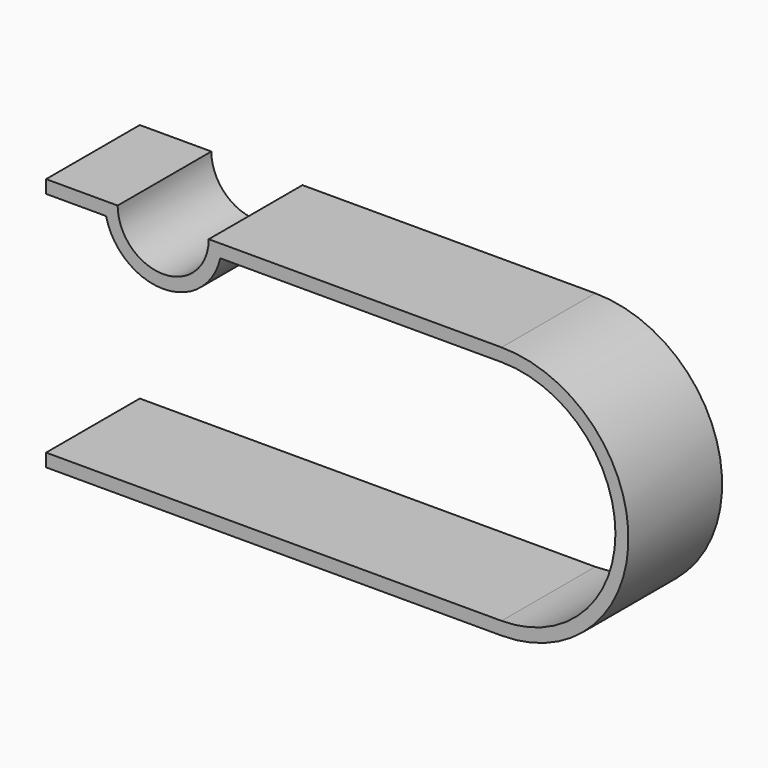
from build123d import *

# Parameters (mm, degrees)
F1_DEPTH = 9
F2_W     = 11
F2_H     = 7
F3_DEPTH = 0.5


with BuildPart() as f1:
    # F0 (on Front) → F1 (new body)
    with BuildSketch(Plane.XZ):
        with BuildLine():
            Line((0, 1), (0, 0))
            Line((0, 0), (35, 0))
            ThreePointArc((35, 0), (44.75, 9.75), (35, 19.499999))
            Line((35, 19.499999), (12.5, 19.499999))
            ThreePointArc((12.5, 19.499999), (9, 15.999999), (5.5, 19.499999))
            Line((5.5, 19.499999), (0, 19.499999))
            Line((0, 19.499999), (0, 18.5))
            Line((0, 18.5), (4.612518, 18.5))
            ThreePointArc((4.612518, 18.5), (9, 15), (13.387482, 18.5))
            Line((13.387482, 18.5), (35, 18.5))
            ThreePointArc((35, 18.5), (43.75, 9.75), (35, 1))
            Line((35, 1), (0, 1))
        make_face()
    extrude(amount=F1_DEPTH)

    # F2 (on face) → F3 (cut)
    with BuildSketch(Plane(origin=(0, 0, 0), x_dir=(1, 0, 0), z_dir=(0, 0, -1))):
        with Locations((8.5, 4.5)):
            Rectangle(F2_W, F2_H)
    extrude(amount=-F3_DEPTH, mode=Mode.SUBTRACT)


solid = f1.part
